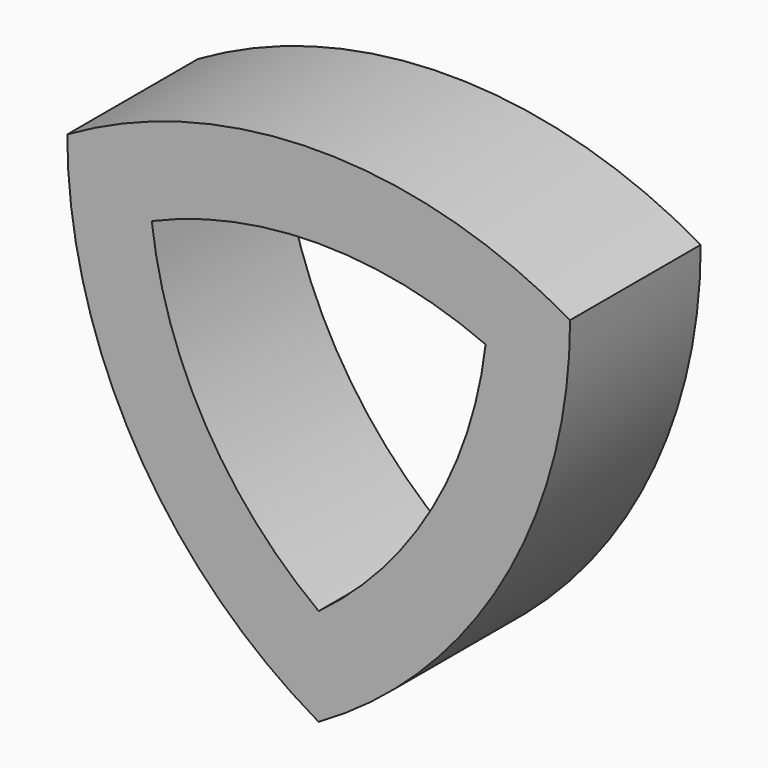
from build123d import *

# Parameters (mm, degrees)
F1_DEPTH = 25.4
F2_T     = -12.7


with BuildPart() as f1:
    # F0 (on Front) → F1 (new body)
    with BuildSketch(Plane.XZ):
        with BuildLine():
            ThreePointArc((-39.104919, 22.577235), (-28.626787, -16.527683), (0, -45.154471))
            ThreePointArc((0, -45.154471), (28.626787, -16.527683), (39.104919, 22.577235))
            ThreePointArc((39.104919, 22.577235), (0, 33.055367), (-39.104919, 22.577235))
        make_face()
    extrude(amount=F1_DEPTH)

    # F2
    f2_openings = [f1.faces().sort_by_distance(p)[0] for p in [
        (0, -25.4, 0),
        (0, 0, 0),
    ]]
    offset(amount=F2_T, openings=f2_openings)


solid = f1.part
